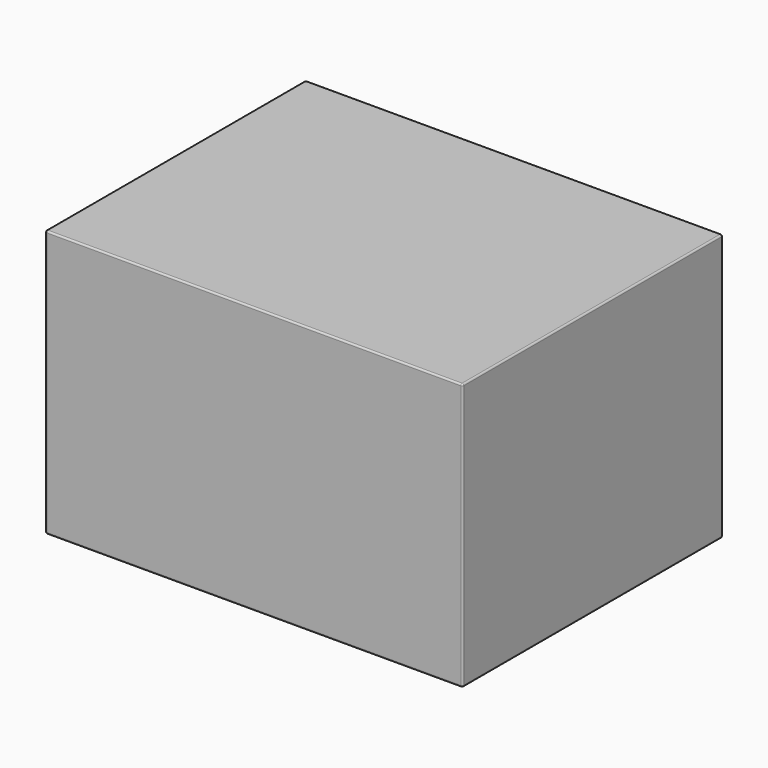
from build123d import *

# Parameters (mm, degrees)
SKETCH_W  = 250
SKETCH_H  = 195
PAD_DEPTH = 160
FILLET_R  = 1


with BuildPart() as part:
    # Sketch → Pad (new body)
    with BuildSketch(Plane.XY):
        with Locations((125, -97.5)):
            Rectangle(SKETCH_W, SKETCH_H)
    extrude(amount=PAD_DEPTH)

    # Fillet
    fillet_edges = [part.edges().sort_by_distance(p)[0] for p in [
        (0, 0, 80),
        (250, 0, 80),
        (125, 0, 0),
        (125, 0, 160),
        (250, -195, 80),
        (250, -97.5, 0),
        (250, -97.5, 160),
        (0, -195, 80),
        (125, -195, 0),
        (125, -195, 160),
        (0, -97.5, 0),
        (0, -97.5, 160),
    ]]
    fillet(fillet_edges, radius=FILLET_R)


solid = part.part
